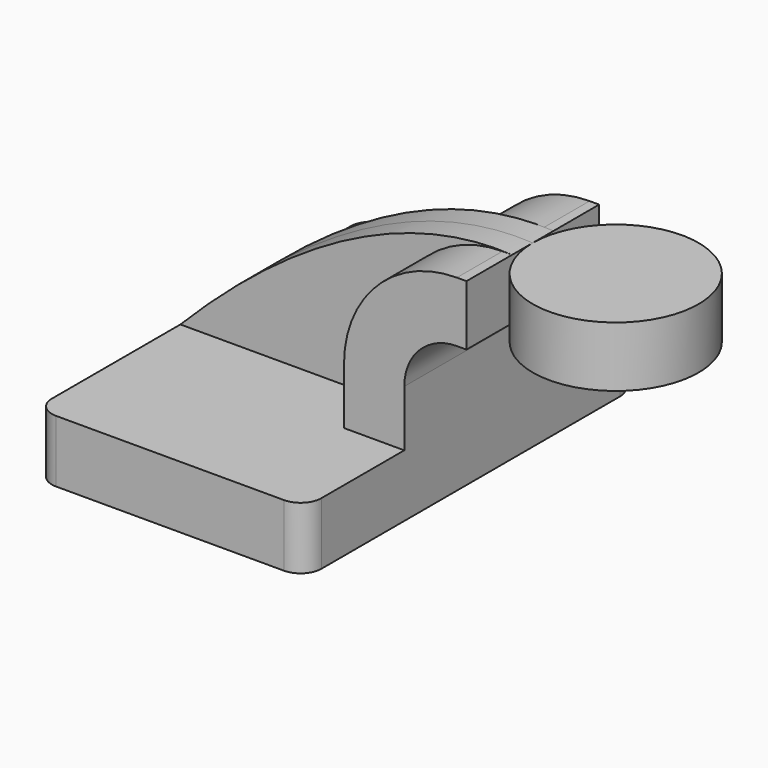
from build123d import *

# Parameters (mm, degrees)
F1_DEPTH = 63.5
F2_DEPTH = 25.4
F3_DEPTH = 7.9375
F0_W     = 25.4
F0_H     = 18.464088
F5_R     = 6.35


with BuildPart() as f1:
    # F0 (on Front) → F1 (new body, symmetric)
    with BuildSketch(Plane.XZ):
        Polygon((22.810912, 9.525), (-41.275, 9.525), (-41.275, -9.525), (41.275, -9.525), (41.275, 9.525), align=None)
    extrude(amount=F1_DEPTH, both=True)

    # F0 (on Front) → F2 (join, symmetric)
    with BuildSketch(Plane.XZ):
        with BuildLine():
            Line((22.810912, 26.756578), (22.810912, 9.525))
            Line((22.810912, 9.525), (41.275, 9.525))
            Line((41.275, 9.525), (41.275, 26.756578))
            ThreePointArc((41.275, 26.756578), (45.996035, 38.154165), (57.393622, 42.8752))
            Line((57.393622, 42.8752), (60.325, 42.8752))
            Line((60.325, 42.8752), (60.325, 61.339288))
            Line((60.325, 61.339288), (57.393622, 61.339288))
            ThreePointArc((57.393622, 61.339288), (32.939953, 51.210247), (22.810912, 26.756578))
        make_face()
    extrude(amount=F2_DEPTH, both=True)

    # F0 (on Front) → F3 (join, symmetric)
    with BuildSketch(Plane.XZ):
        with BuildLine():
            add(Edge.make_bspline(
                [(-41.275, 9.525), (-10.767165, 40.46579), (24.806041, 63.308753), (60.325, 61.339288)],
                knots=[0, 0, 0, 0, 114.049465, 114.049465, 114.049465, 114.049465], degree=3))
            Line((-41.275, 9.525), (22.810912, 9.525))
            Line((22.810912, 9.525), (22.810912, 26.756578))
            ThreePointArc((22.810912, 26.756578), (32.939953, 51.210247), (57.393622, 61.339288))
            Line((57.393622, 61.339288), (60.325, 61.339288))
        make_face()
    extrude(amount=F3_DEPTH, both=True)

    # F0 (on Front) → F4 (revolve)
    with BuildSketch(Plane.XZ):
        with Locations((73.025, 52.107244)):
            Rectangle(F0_W, F0_H)
    revolve(axis=Axis((85.725, 0, 52.107244), (0, 0, 1)))

    # F5
    f5_edges = [f1.edges().sort_by_distance(p)[0] for p in [
        (41.275, -63.5, 0),
        (-41.275, -63.5, 0),
        (-41.275, 63.5, 0),
        (41.275, 63.5, 0),
    ]]
    fillet(f5_edges, radius=F5_R)


solid = f1.part
